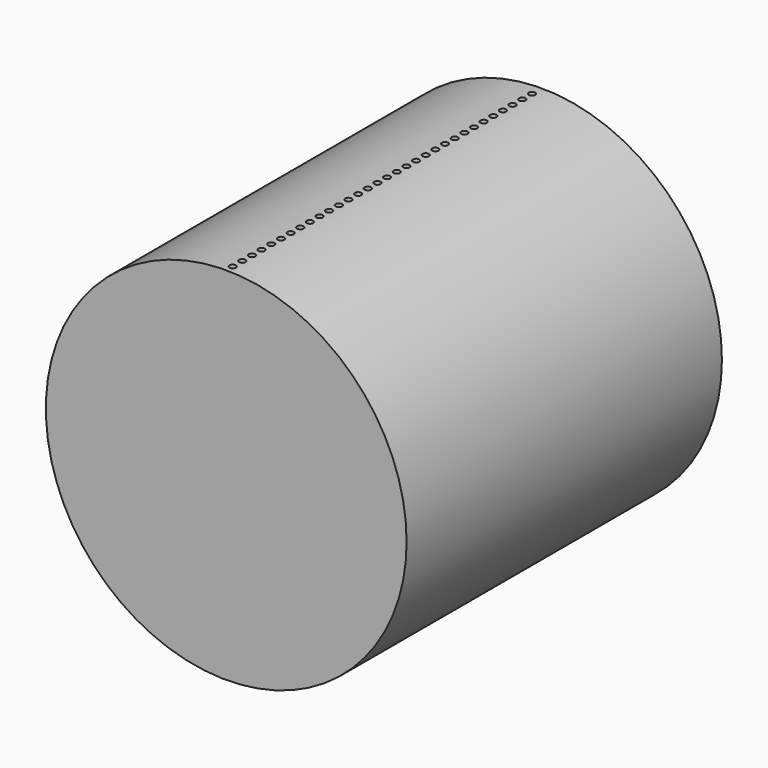
from build123d import *

# Parameters (mm, degrees)
F0_R     = 22.425
F1_DEPTH = 49
F2_R     = 0.4
F3_DEPTH = 31


with BuildPart() as f1:
    # F0 (on Front) → F1 (new body)
    with BuildSketch(Plane.XZ):
        Circle(F0_R)
    extrude(amount=F1_DEPTH)

    # F2 (on Top) → F3 (cut)
    with BuildSketch(Plane.XY):
        with Locations((0, -1.5)):
            Circle(F2_R)
        with Locations((0, -3)):
            Circle(F2_R)
        with Locations((0, -4.5)):
            Circle(F2_R)
        with Locations((0, -6)):
            Circle(F2_R)
        with Locations((0, -7.5)):
            Circle(F2_R)
        with Locations((0, -9)):
            Circle(F2_R)
        with Locations((0, -10.5)):
            Circle(F2_R)
        with Locations((0, -12)):
            Circle(F2_R)
        with Locations((0, -13.5)):
            Circle(F2_R)
        with Locations((0, -15)):
            Circle(F2_R)
        with Locations((0, -16.5)):
            Circle(F2_R)
        with Locations((0, -18)):
            Circle(F2_R)
        with Locations((0, -19.5)):
            Circle(F2_R)
        with Locations((0, -21)):
            Circle(F2_R)
        with Locations((0, -22.5)):
            Circle(F2_R)
        with Locations((0, -24)):
            Circle(F2_R)
        with Locations((0, -25.5)):
            Circle(F2_R)
        with Locations((0, -27)):
            Circle(F2_R)
        with Locations((0, -28.5)):
            Circle(F2_R)
        with Locations((0, -30)):
            Circle(F2_R)
        with Locations((0, -31.5)):
            Circle(F2_R)
        with Locations((0, -33)):
            Circle(F2_R)
        with Locations((0, -34.5)):
            Circle(F2_R)
        with Locations((0, -36)):
            Circle(F2_R)
        with Locations((0, -37.5)):
            Circle(F2_R)
        with Locations((0, -39)):
            Circle(F2_R)
        with Locations((0, -40.5)):
            Circle(F2_R)
        with Locations((0, -42)):
            Circle(F2_R)
        with Locations((0, -43.5)):
            Circle(F2_R)
        with Locations((0, -45)):
            Circle(F2_R)
        with Locations((0, -46.5)):
            Circle(F2_R)
        with Locations((0, -48)):
            Circle(F2_R)
    extrude(amount=F3_DEPTH, mode=Mode.SUBTRACT)


solid = f1.part
